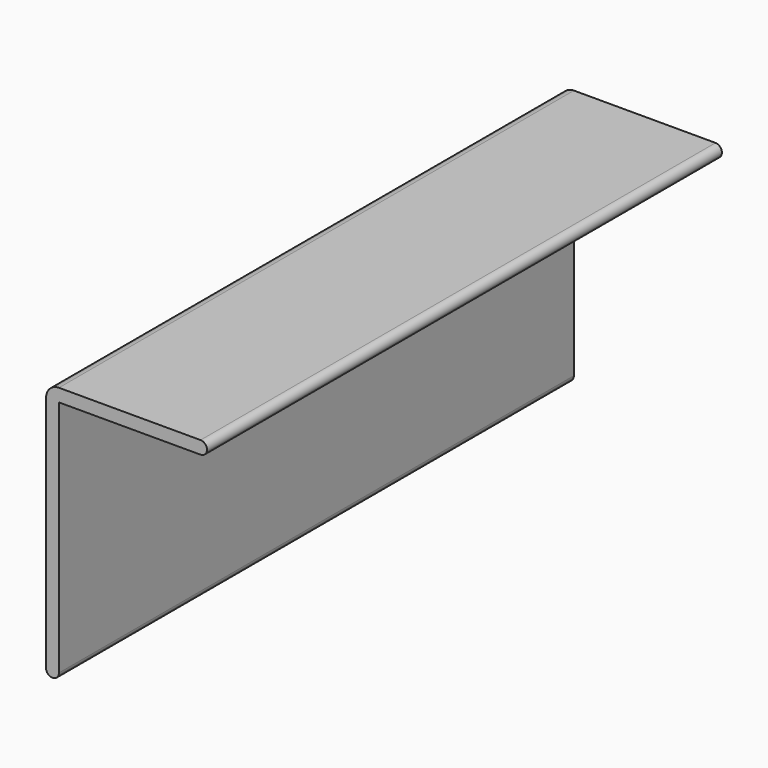
from build123d import *

# Parameters (mm, degrees)
F1_DEPTH = 100


with BuildPart() as f1:
    # F0 (on Front) → F1 (new body)
    with BuildSketch(Plane.XZ):
        with BuildLine():
            ThreePointArc((11.5, 18), (12.5, 19), (11.5, 20))
            Line((11.5, 20), (-10.5, 20))
            ThreePointArc((-10.5, 20), (-11.914214, 19.414214), (-12.5, 18))
            Line((-12.5, 18), (-12.5, -19))
            ThreePointArc((-12.5, -19), (-12.207107, -19.707107), (-11.5, -20))
            ThreePointArc((-11.5, -20), (-10.792893, -19.707107), (-10.5, -19))
            Line((-10.5, -19), (-10.5, -18))
            Line((-10.5, -18), (-10.5, -12.363406))
            Line((-10.5, -12.363406), (-10.5, 18))
            Line((-10.5, 18), (11.5, 18))
        make_face()
    extrude(amount=F1_DEPTH)


solid = f1.part
